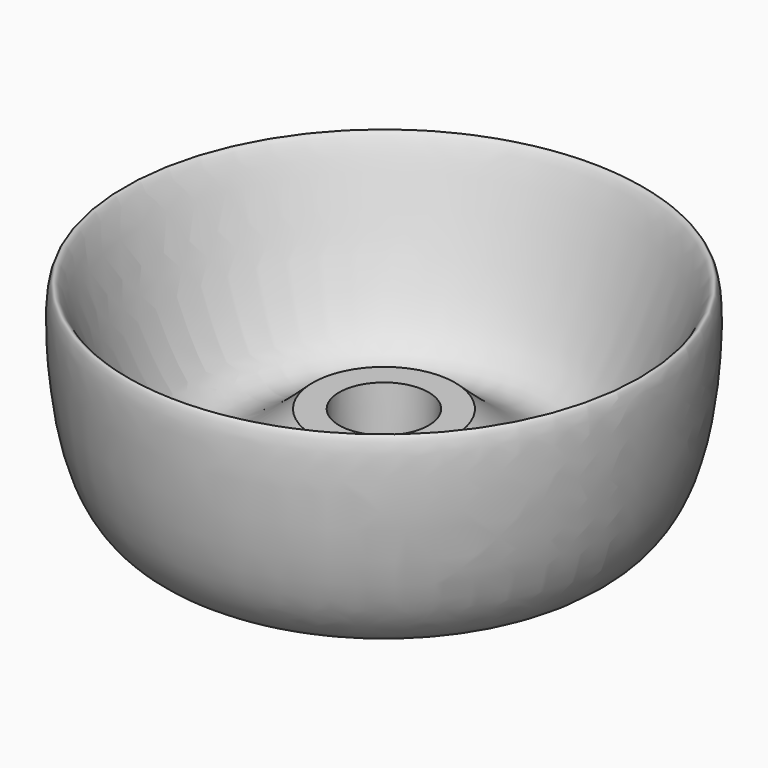
from build123d import *

# Parameters (mm, degrees)
F2_W     = 187.2701197863
F2_H     = 151.3685882092
F2_R     = 36.195
F3_DEPTH = 25.4


with BuildPart() as f1:
    # F0 (on Front) → F1 (revolve)
    with BuildSketch(Plane.XZ):
        Polygon((10.16, 0), (0, 0), (0, -6.35), (17.145, -6.35), (17.145, 0), (17.145, 19.05), (10.795, 19.05), align=None)
        with BuildLine():
            Line((17.145, 0), (17.145, -6.35))
            Line((17.145, -6.35), (36.195, -6.35))
            add(Edge.make_bspline(
                [(36.195, -6.35), (41.2261076272, -6.35), (52.0956741243, -5.5413833378), (63.7264383794, 12.3635397544), (64.995669366, 68.9136692473), (46.1419283817, -7.6005482144), (26.1013676266, 10.8187406471), (17.145, 19.05)],
                knots=[0, 0, 0, 0, 0.1459300162, 0.3321106767, 0.543785394, 0.796086172, 1, 1, 1, 1], degree=3))
            Line((17.145, 19.05), (17.145, 0))
        make_face()
    revolve(axis=Axis((0, 0, 9.525), (0, 0, -1)))

    # F2 (on face) → F3 (cut)
    with BuildSketch(Plane(origin=(0, 0, -6.35), x_dir=(1, 0, 0), z_dir=(0, 0, -1))):
        with Locations((0.5310550332, -2.0148456097)):
            Rectangle(F2_W, F2_H)
        Circle(F2_R, mode=Mode.SUBTRACT)
        with Locations((0.5310550332, -2.0148456097)):
            Rectangle(F2_W, F2_H)
        Circle(F2_R, mode=Mode.SUBTRACT)
    extrude(amount=F3_DEPTH, mode=Mode.SUBTRACT)


solid = f1.part
